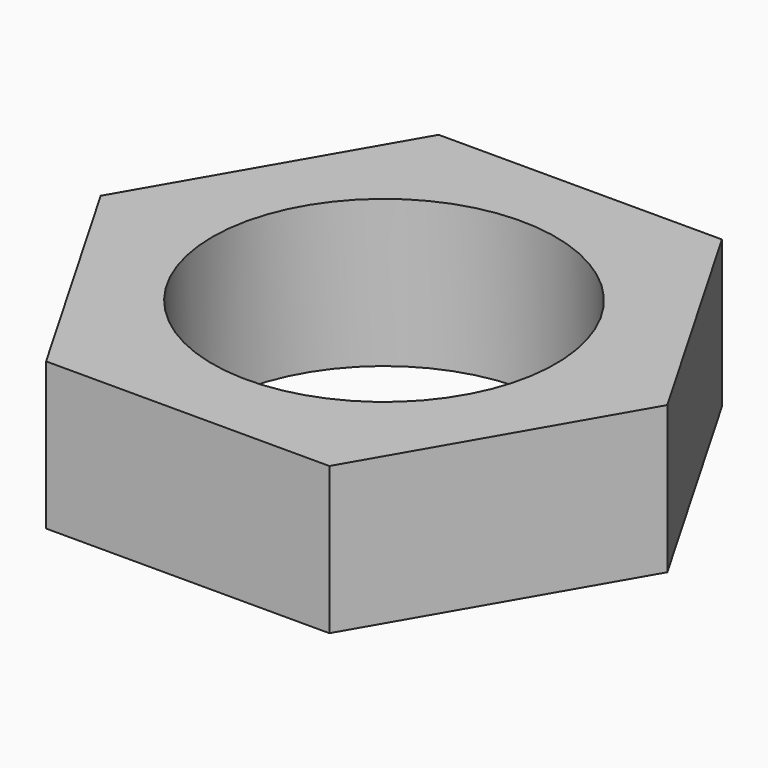
from build123d import *

# Parameters (mm, degrees)
F1_DEPTH = 3
F3_D     = 7


with BuildPart() as f1:
    # F0 (on Top) → F1 (new body)
    with BuildSketch(Plane.XY):
        Polygon((2.886751, 5), (-2.886751, 5), (-5.773503, 0), (-2.886751, -5), (2.886751, -5), (5.773503, 0), align=None)
    extrude(amount=F1_DEPTH)

    # F3 (through all)
    with Locations(Plane(origin=(0, 0, 0), x_dir=(1, 0, 0), z_dir=(0, 0, -1))):
        with Locations((0, 0)):
            Hole(F3_D / 2)


solid = f1.part
